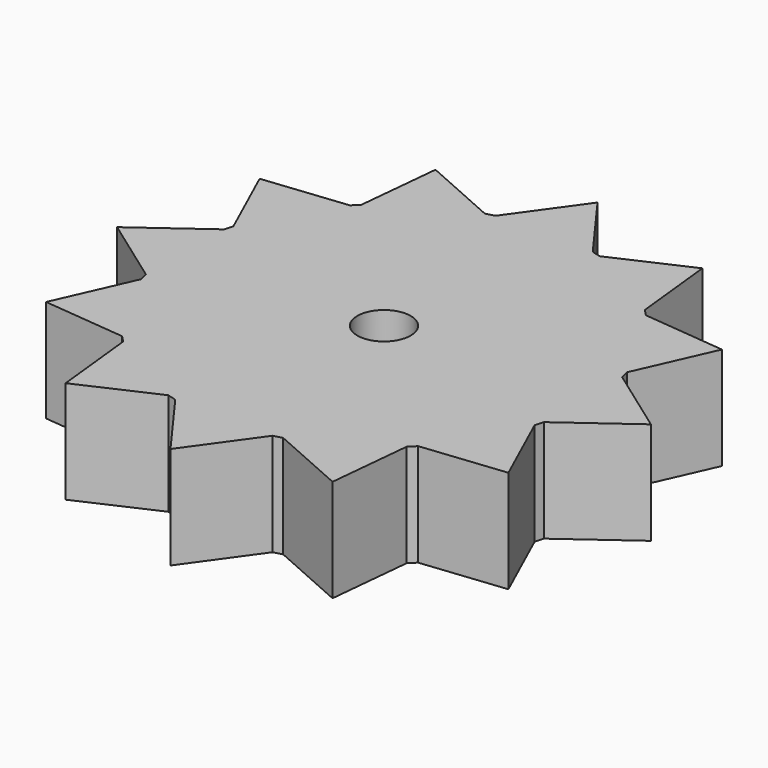
from build123d import *

# Parameters (mm, degrees)
F0_R     = 3.303796
F1_DEPTH = 12.7


with BuildPart() as f1:
    # F0 (on Top) → F1 (new body)
    with BuildSketch(Plane.XY):
        with BuildLine():
            ThreePointArc((24.677187, -6.103808), (25.234256, -3.074472), (25.420859, 0))
            ThreePointArc((25.420859, 0), (25.242258, 3.008071), (24.708964, 5.973873))
            ThreePointArc((24.708964, 5.973873), (24.571889, 6.514777), (24.422975, 7.052541))
            ThreePointArc((24.422975, 7.052541), (22.048474, 12.652464), (18.411654, 17.528008))
            ThreePointArc((18.411654, 17.528008), (18.022492, 17.927907), (17.624647, 18.319167))
            ThreePointArc((17.624647, 18.319167), (12.768307, 21.981592), (7.180956, 24.385527))
            ThreePointArc((7.180956, 24.385527), (6.643983, 24.537269), (6.103808, 24.677187))
            ThreePointArc((6.103808, 24.677187), (3.074472, 25.234256), (0, 25.420859))
            ThreePointArc((0, 25.420859), (-3.008071, 25.242258), (-5.973873, 24.708964))
            ThreePointArc((-5.973873, 24.708964), (-6.514777, 24.571889), (-7.052541, 24.422975))
            ThreePointArc((-7.052541, 24.422975), (-12.652464, 22.048474), (-17.528008, 18.411654))
            ThreePointArc((-17.528008, 18.411654), (-17.927907, 18.022492), (-18.319167, 17.624647))
            ThreePointArc((-18.319167, 17.624647), (-21.981592, 12.768307), (-24.385527, 7.180956))
            ThreePointArc((-24.385527, 7.180956), (-24.537269, 6.643983), (-24.677187, 6.103808))
            ThreePointArc((-24.677187, 6.103808), (-25.420771, 0.066882), (-24.708964, -5.973873))
            ThreePointArc((-24.708964, -5.973873), (-24.571889, -6.514777), (-24.422975, -7.052541))
            ThreePointArc((-24.422975, -7.052541), (-22.048474, -12.652464), (-18.411654, -17.528008))
            ThreePointArc((-18.411654, -17.528008), (-18.022492, -17.927907), (-17.624647, -18.319167))
            ThreePointArc((-17.624647, -18.319167), (-12.768307, -21.981592), (-7.180956, -24.385527))
            ThreePointArc((-7.180956, -24.385527), (-6.643983, -24.537269), (-6.103808, -24.677187))
            ThreePointArc((-6.103808, -24.677187), (-0.066882, -25.420771), (5.973873, -24.708964))
            ThreePointArc((5.973873, -24.708964), (6.514777, -24.571889), (7.052541, -24.422975))
            ThreePointArc((7.052541, -24.422975), (12.652464, -22.048474), (17.528008, -18.411654))
            ThreePointArc((17.528008, -18.411654), (17.927907, -18.022492), (18.319167, -17.624647))
            ThreePointArc((18.319167, -17.624647), (21.981592, -12.768307), (24.385527, -7.180956))
            ThreePointArc((24.385527, -7.180956), (24.537269, -6.643983), (24.677187, -6.103808))
        make_face()
        Circle(F0_R, mode=Mode.SUBTRACT)
        with BuildLine():
            ThreePointArc((24.708964, 5.973873), (25.242258, 3.008071), (25.420859, 0))
            ThreePointArc((25.420859, 0), (25.234256, -3.074472), (24.677187, -6.103808))
            Line((24.677187, -6.103808), (33.047907, 0))
            Line((33.047907, 0), (24.708964, 5.973873))
        make_face()
        with BuildLine():
            ThreePointArc((18.411654, 17.528008), (22.048474, 12.652464), (24.422975, 7.052541))
            Line((24.422975, 7.052541), (28.620327, 16.523954))
            Line((28.620327, 16.523954), (18.411654, 17.528008))
        make_face()
        with BuildLine():
            Line((28.620327, -16.523954), (24.385527, -7.180956))
            ThreePointArc((24.385527, -7.180956), (21.981592, -12.768307), (18.319167, -17.624647))
            Line((18.319167, -17.624647), (28.620327, -16.523954))
        make_face()
        with BuildLine():
            ThreePointArc((7.180956, 24.385527), (12.768307, 21.981592), (17.624647, 18.319167))
            Line((17.624647, 18.319167), (16.523954, 28.620327))
            Line((16.523954, 28.620327), (7.180956, 24.385527))
        make_face()
        with BuildLine():
            Line((16.523954, -28.620327), (17.528008, -18.411654))
            ThreePointArc((17.528008, -18.411654), (12.652464, -22.048474), (7.052541, -24.422975))
            Line((7.052541, -24.422975), (16.523954, -28.620327))
        make_face()
        with BuildLine():
            ThreePointArc((0, 25.420859), (3.074472, 25.234256), (6.103808, 24.677187))
            Line((6.103808, 24.677187), (0, 33.047907))
            Line((0, 33.047907), (0, 25.420859))
        make_face()
        with BuildLine():
            Line((0, -33.047907), (5.973873, -24.708964))
            ThreePointArc((5.973873, -24.708964), (-0.066882, -25.420771), (-6.103808, -24.677187))
            Line((-6.103808, -24.677187), (0, -33.047907))
        make_face()
        with BuildLine():
            ThreePointArc((-5.973873, 24.708964), (-3.008071, 25.242258), (0, 25.420859))
            Line((0, 25.420859), (0, 33.047907))
            Line((0, 33.047907), (-5.973873, 24.708964))
        make_face()
        with BuildLine():
            Line((-16.523954, -28.620327), (-7.180956, -24.385527))
            ThreePointArc((-7.180956, -24.385527), (-12.768307, -21.981592), (-17.624647, -18.319167))
            Line((-17.624647, -18.319167), (-16.523954, -28.620327))
        make_face()
        with BuildLine():
            ThreePointArc((-17.528008, 18.411654), (-12.652464, 22.048474), (-7.052541, 24.422975))
            Line((-7.052541, 24.422975), (-16.523954, 28.620327))
            Line((-16.523954, 28.620327), (-17.528008, 18.411654))
        make_face()
        with BuildLine():
            Line((-28.620327, -16.523954), (-18.411654, -17.528008))
            ThreePointArc((-18.411654, -17.528008), (-22.048474, -12.652464), (-24.422975, -7.052541))
            Line((-24.422975, -7.052541), (-28.620327, -16.523954))
        make_face()
        with BuildLine():
            ThreePointArc((-24.385527, 7.180956), (-21.981592, 12.768307), (-18.319167, 17.624647))
            Line((-18.319167, 17.624647), (-28.620327, 16.523954))
            Line((-28.620327, 16.523954), (-24.385527, 7.180956))
        make_face()
        with BuildLine():
            Line((-33.047907, 0), (-24.708964, -5.973873))
            ThreePointArc((-24.708964, -5.973873), (-25.420771, 0.066882), (-24.677187, 6.103808))
            Line((-24.677187, 6.103808), (-33.047907, 0))
        make_face()
    extrude(amount=F1_DEPTH)


solid = f1.part
